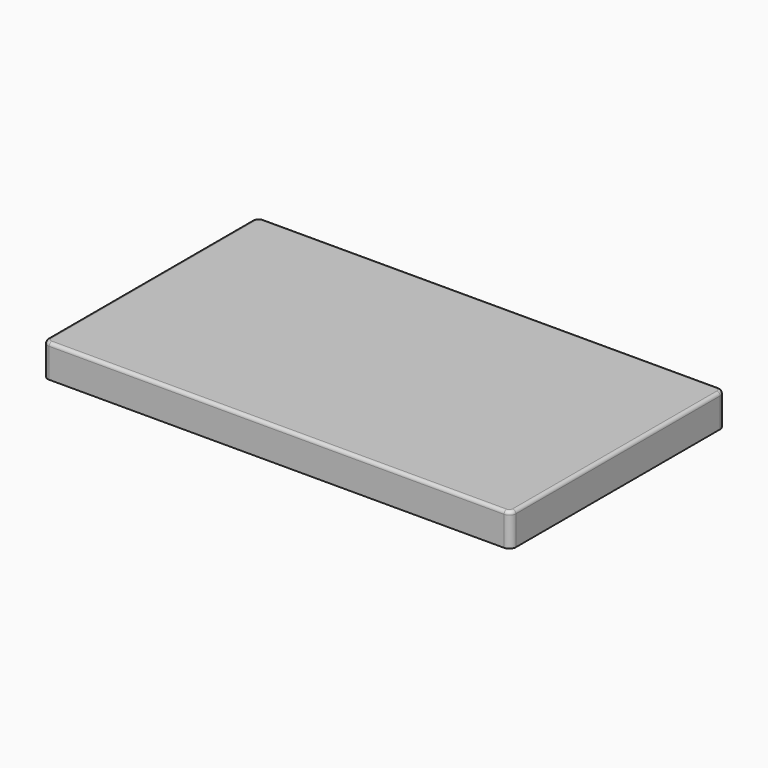
from build123d import *

# Parameters (mm, degrees)
F1_DEPTH = 10
F2_R     = 1


with BuildPart() as f1:
    # F0 (on Top) → F1 (new body)
    with BuildSketch(Plane.XY):
        with BuildLine():
            Line((69.5, 41), (-69.5, 41))
            ThreePointArc((-69.5, 41), (-70.914214, 40.414214), (-71.5, 39))
            Line((-71.5, 39), (-71.5, -39))
            ThreePointArc((-71.5, -39), (-70.914214, -40.414214), (-69.5, -41))
            Line((-69.5, -41), (69.5, -41))
            ThreePointArc((69.5, -41), (70.914214, -40.414214), (71.5, -39))
            Line((71.5, -39), (71.5, 39))
            ThreePointArc((71.5, 39), (70.914214, 40.414214), (69.5, 41))
        make_face()
    extrude(amount=F1_DEPTH)

    # F2
    f2_edges = [f1.edges().sort_by_distance(p)[0] for p in [
        (0, -41, 10),
    ]]
    fillet(f2_edges, radius=F2_R)


solid = f1.part
